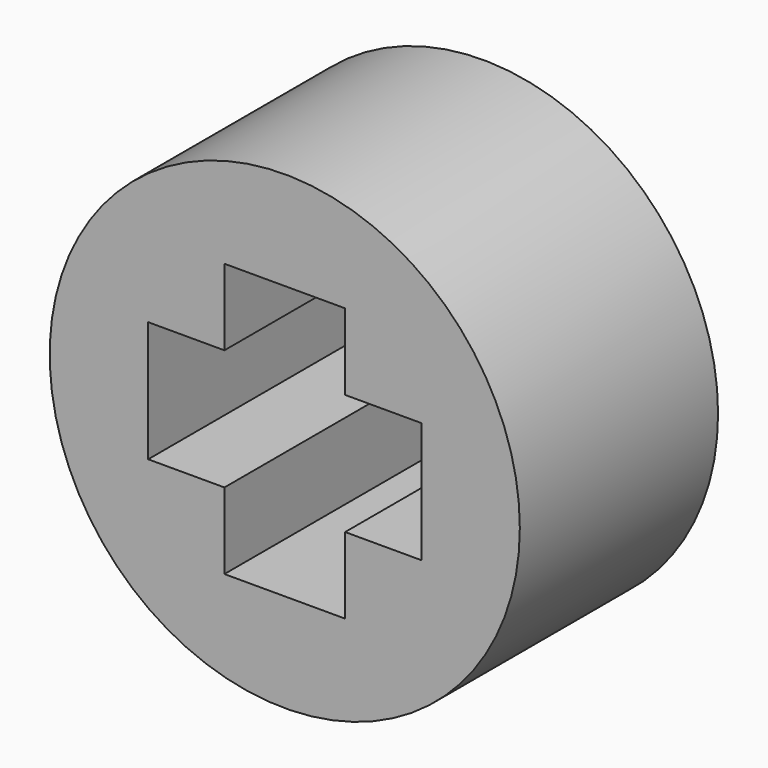
from build123d import *

# Parameters (mm, degrees)
F0_R     = 3.7
F1_DEPTH = 3.9


with BuildPart() as f1:
    # F0 (on Front) → F1 (new body)
    with BuildSketch(Plane.XZ):
        with Locations((0, 0.9)):
            Circle(F0_R)
        Polygon((-0.95, 3.05), (0, 3.05), (0.95, 3.05), (0.95, 1.85), (2.15, 1.85), (2.15, -0.05), (0.95, -0.05), (0.95, -1.25), (-0.95, -1.25), (-0.95, -0.05), (-2.15, -0.05), (-2.15, 1.85), (-0.95, 1.85), align=None, mode=Mode.SUBTRACT)
    extrude(amount=F1_DEPTH)


solid = f1.part
